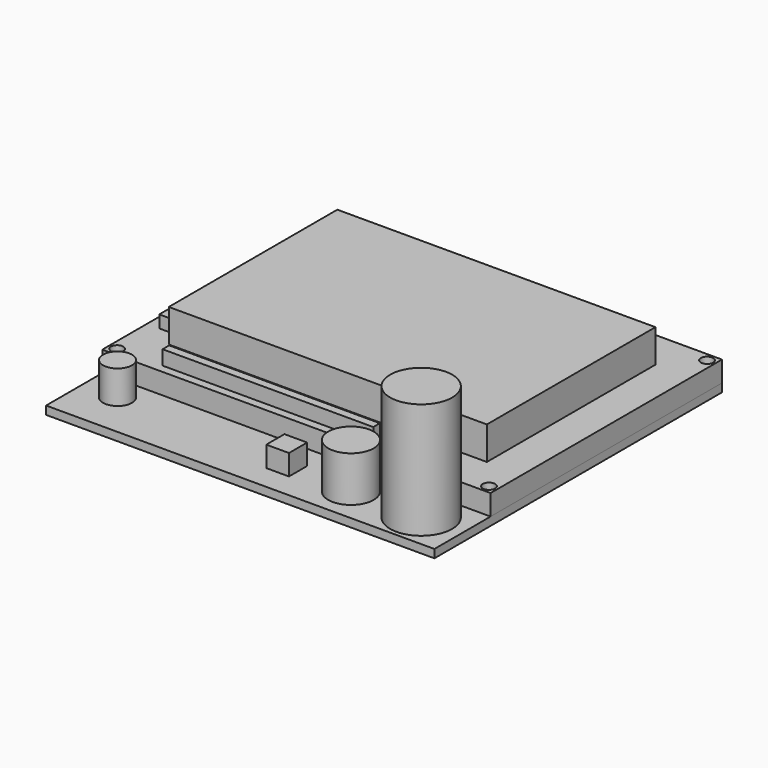
from build123d import *

# Parameters (mm, degrees)
F0_W        = 94
F0_H        = 87
F1_DEPTH    = 2
F2_W        = 94
F2_H        = 70
F3_DEPTH    = 5
F4_W        = 77
F4_H        = 51
F5_DEPTH    = 8
F6_W        = 5.5
F6_H        = 43
F7_DEPTH    = 3
F8_R        = 7.5
F9_DEPTH    = 28
F10_R       = 5.5
F11_DEPTH   = 11
F12_W       = 5.5
F12_H       = 5.5
F13_DEPTH   = 5
F14_R       = 3.5
F15_DEPTH   = 8
F17_D       = 3
F17_DEPTH   = 20
F17_2_D     = 3
F17_2_DEPTH = 20
F18_D       = 3
F18_2_D     = 3
F19_W       = 51
F19_H       = 2
F20_DEPTH   = 3.5
F21_W       = 26
F21_H       = 22
F22_DEPTH   = 3
F23_W       = 20
F23_H       = 9
F24_DEPTH   = 11


with BuildPart() as f1:
    # F0 (on Top) → F1 (new body)
    with BuildSketch(Plane.XY):
        Rectangle(F0_W, F0_H)
    extrude(amount=F1_DEPTH)

    # F17
    with Locations(Plane.XY.offset(7)):
        with Locations((-45, 41.5)):
            Hole(F17_D / 2, depth=F17_DEPTH)

    # F18 (through all)
    with Locations(Plane.XY.offset(7)):
        with Locations((45, 41.5), (45, -24.5), (-45, -24.5)):
            Hole(F18_D / 2)

    # F21 (on face) → F22 (join)
    with BuildSketch(Plane(origin=(0, 0, 0), x_dir=(1, 0, 0), z_dir=(0, 0, -1))):
        with Locations((-34, -11)):
            Rectangle(F21_W, F21_H)
    extrude(amount=F22_DEPTH)

    # F23 (on face) → F24 (join)
    with BuildSketch(Plane(origin=(0, 0, 0), x_dir=(1, 0, 0), z_dir=(0, 0, -1))):
        with Locations((14, -33)):
            Rectangle(F23_W, F23_H)
        with Locations((-16, -33)):
            Rectangle(F23_W, F23_H)
    extrude(amount=F24_DEPTH)


with BuildPart() as f3:
    # F2 (on face) → F3 (new body)
    with BuildSketch(Plane.XY.offset(2)):
        with Locations((0, 8.5)):
            Rectangle(F2_W, F2_H)
    extrude(amount=F3_DEPTH)

    # F17#2
    with Locations(Plane.XY.offset(7)):
        with Locations((-45, 41.5)):
            Hole(F17_2_D / 2, depth=F17_2_DEPTH)

    # F18#2 (through all)
    with Locations(Plane.XY.offset(7)):
        with Locations((45, 41.5), (45, -24.5), (-45, -24.5)):
            Hole(F18_2_D / 2)


with BuildPart() as f5:
    # F4 (on face) → F5 (new body)
    with BuildSketch(Plane.XY.offset(7)):
        with Locations((0, 8.5)):
            Rectangle(F4_W, F4_H)
    extrude(amount=F5_DEPTH)


with BuildPart() as f7:
    # F6 (on face) → F7 (new body)
    with BuildSketch(Plane.XY.offset(7)):
        with Locations((-41.25, 8.5)):
            Rectangle(F6_W, F6_H)
    extrude(amount=F7_DEPTH)


with BuildPart() as f9:
    # F8 (on face) → F9 (new body)
    with BuildSketch(Plane.XY.offset(2)):
        with Locations((37, -35)):
            Circle(F8_R)
    extrude(amount=F9_DEPTH)


with BuildPart() as f11:
    # F10 (on face) → F11 (new body)
    with BuildSketch(Plane.XY.offset(2)):
        with Locations((20, -35)):
            Circle(F10_R)
    extrude(amount=F11_DEPTH)


with BuildPart() as f13:
    # F12 (on face) → F13 (new body)
    with BuildSketch(Plane.XY.offset(2)):
        with Locations((4.25, -34.75)):
            Rectangle(F12_W, F12_H)
    extrude(amount=F13_DEPTH)


with BuildPart() as f15:
    # F14 (on face) → F15 (new body)
    with BuildSketch(Plane.XY.offset(2)):
        with Locations((-38.5, -32.5)):
            Circle(F14_R)
    extrude(amount=F15_DEPTH)


with BuildPart() as f20:
    # F19 (on face) → F20 (new body)
    with BuildSketch(Plane.XY.offset(7)):
        with Locations((-8.5, -23.5)):
            Rectangle(F19_W, F19_H)
    extrude(amount=F20_DEPTH)


solid = Compound([f1.part, f3.part, f5.part, f7.part, f9.part, f11.part, f13.part, f15.part, f20.part])
